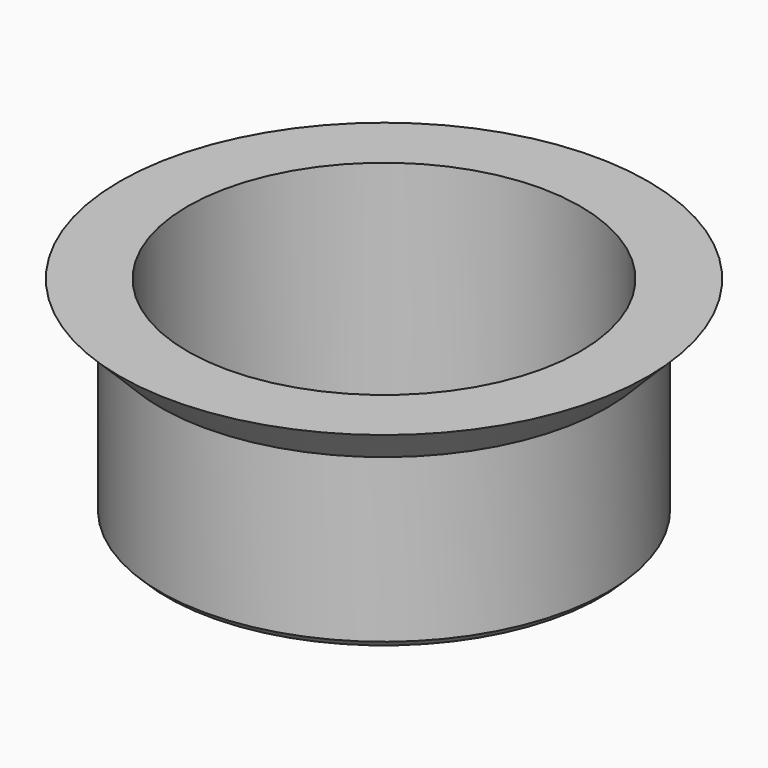
from build123d import *

# Parameters (mm, degrees)
F3_D    = 29
F4_SIZE = 0.5


with BuildPart() as f1:
    # F0 (on Front) → F1 (revolve)
    with BuildSketch(Plane.XZ):
        Polygon((0, -15.5), (0, 0), (-19.5, 0), (-16.5, -3), (-16.5, -15.5), align=None)
    revolve(axis=Axis((0, 0, -7.75), (0, 0, 1)))

    # F3 (through all)
    with Locations(Plane.XY):
        with Locations((0, 0)):
            Hole(F3_D / 2)

    # F4
    f4_edges = [f1.edges().sort_by_distance(p)[0] for p in [
        (16.5, 0, -15.5),
    ]]
    chamfer(f4_edges, length=F4_SIZE)


solid = f1.part
